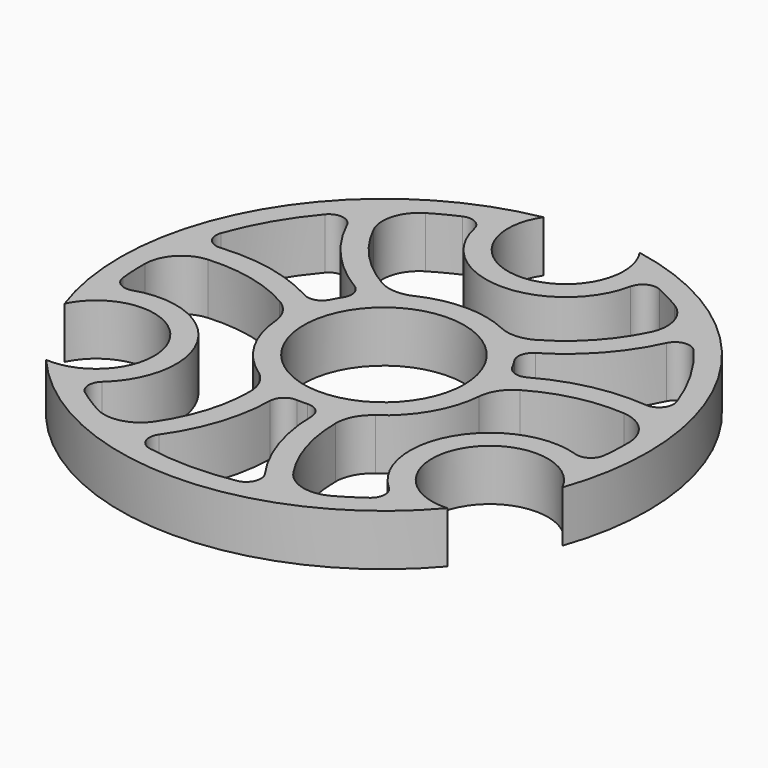
from build123d import *

# Parameters (mm, degrees)
F0_R     = 10.95
F1_DEPTH = 7
F2_R     = 5
F3_R     = 2


with BuildPart() as f1:
    # F0 (on Top) → F1 (new body)
    with BuildSketch(Plane.XY):
        with BuildLine():
            ThreePointArc((6.56352, 35.396613), (0, 23.1), (-6.56352, 35.396613))
            ThreePointArc((-6.56352, 35.396613), (-31.176915, 18), (-33.936126, -12.014131))
            ThreePointArc((-33.936126, -12.014131), (-20.005187, -11.55), (-27.372606, -23.382482))
            ThreePointArc((-27.372606, -23.382482), (0, -36), (27.372606, -23.382482))
            ThreePointArc((27.372606, -23.382482), (20.005187, -11.55), (33.936126, -12.014131))
            ThreePointArc((33.936126, -12.014131), (31.176915, 18), (6.56352, 35.396613))
        make_face()
        with BuildLine():
            ThreePointArc((-9.145851, -31.707308), (-4.156786, -23.320729), (-2.918877, -13.641212))
            ThreePointArc((-2.918877, -13.641212), (0, -13.95), (2.918877, -13.641212))
            ThreePointArc((2.918877, -13.641212), (4.156786, -23.320729), (9.145851, -31.707308))
            ThreePointArc((9.145851, -31.707308), (0, -33), (-9.145851, -31.707308))
        make_face(mode=Mode.SUBTRACT)
        with BuildLine():
            ThreePointArc((-12.282678, -30.629003), (-17.135811, -28.202198), (-21.525659, -25.012917))
            ThreePointArc((-21.525659, -25.012917), (-17.407111, -10.05), (-32.424651, -6.135309))
            ThreePointArc((-32.424651, -6.135309), (-32.991726, -0.738949), (-32.666834, 4.67739))
            ThreePointArc((-32.666834, 4.67739), (-22.851653, 5.116472), (-13.910969, 1.042811))
            ThreePointArc((-13.910969, 1.042811), (-12.081054, -6.975), (-6.052384, -12.568658))
            ThreePointArc((-6.052384, -12.568658), (-6.994832, -22.348348), (-12.282678, -30.629003))
        make_face(mode=Mode.SUBTRACT)
        with BuildLine():
            ThreePointArc((32.666834, 4.67739), (32.991726, -0.738949), (32.424651, -6.135309))
            ThreePointArc((32.424651, -6.135309), (17.407111, -10.05), (21.525659, -25.012917))
            ThreePointArc((21.525659, -25.012917), (17.135811, -28.202198), (12.282678, -30.629003))
            ThreePointArc((12.282678, -30.629003), (6.994832, -22.348348), (6.052384, -12.568658))
            ThreePointArc((6.052384, -12.568658), (12.081054, -6.975), (13.910969, 1.042811))
            ThreePointArc((13.910969, 1.042811), (22.851653, 5.116472), (32.666834, 4.67739))
        make_face(mode=Mode.SUBTRACT)
        with BuildLine():
            ThreePointArc((-10.354197, 9.348427), (-12.081054, 6.975), (-13.273074, 4.292784))
            ThreePointArc((-13.273074, 4.292784), (-22.274737, 8.060483), (-32.03226, 7.933115))
            ThreePointArc((-32.03226, 7.933115), (-28.578838, 16.5), (-22.886409, 23.774194))
            ThreePointArc((-22.886409, 23.774194), (-18.117951, 15.260247), (-10.354197, 9.348427))
        make_face(mode=Mode.SUBTRACT)
        Circle(F0_R, mode=Mode.SUBTRACT)
        with BuildLine():
            ThreePointArc((22.886409, 23.774194), (28.578838, 16.5), (32.03226, 7.933115))
            ThreePointArc((32.03226, 7.933115), (22.274737, 8.060483), (13.273074, 4.292784))
            ThreePointArc((13.273074, 4.292784), (12.081054, 6.975), (10.354197, 9.348427))
            ThreePointArc((10.354197, 9.348427), (18.117951, 15.260247), (22.886409, 23.774194))
        make_face(mode=Mode.SUBTRACT)
        with BuildLine():
            ThreePointArc((-20.384155, 25.951613), (-15.855914, 28.941147), (-10.898992, 31.148226))
            ThreePointArc((-10.898992, 31.148226), (0, 20.1), (10.898992, 31.148226))
            ThreePointArc((10.898992, 31.148226), (15.855914, 28.941147), (20.384155, 25.951613))
            ThreePointArc((20.384155, 25.951613), (15.856821, 17.231877), (7.858585, 11.525847))
            ThreePointArc((7.858585, 11.525847), (0, 13.95), (-7.858585, 11.525847))
            ThreePointArc((-7.858585, 11.525847), (-15.856821, 17.231877), (-20.384155, 25.951613))
        make_face(mode=Mode.SUBTRACT)
        with BuildLine():
            ThreePointArc((6.56352, 35.396613), (0, 23.1), (-6.56352, 35.396613))
            ThreePointArc((-6.56352, 35.396613), (-31.176915, 18), (-33.936126, -12.014131))
            ThreePointArc((-33.936126, -12.014131), (-20.005187, -11.55), (-27.372606, -23.382482))
            ThreePointArc((-27.372606, -23.382482), (0, -36), (27.372606, -23.382482))
            ThreePointArc((27.372606, -23.382482), (20.005187, -11.55), (33.936126, -12.014131))
            ThreePointArc((33.936126, -12.014131), (31.176915, 18), (6.56352, 35.396613))
        make_face()
        with BuildLine():
            ThreePointArc((-9.145851, -31.707308), (-4.156786, -23.320729), (-2.918877, -13.641212))
            ThreePointArc((-2.918877, -13.641212), (0, -13.95), (2.918877, -13.641212))
            ThreePointArc((2.918877, -13.641212), (4.156786, -23.320729), (9.145851, -31.707308))
            ThreePointArc((9.145851, -31.707308), (0, -33), (-9.145851, -31.707308))
        make_face(mode=Mode.SUBTRACT)
        with BuildLine():
            ThreePointArc((-12.282678, -30.629003), (-17.135811, -28.202198), (-21.525659, -25.012917))
            ThreePointArc((-21.525659, -25.012917), (-17.407111, -10.05), (-32.424651, -6.135309))
            ThreePointArc((-32.424651, -6.135309), (-32.991726, -0.738949), (-32.666834, 4.67739))
            ThreePointArc((-32.666834, 4.67739), (-22.851653, 5.116472), (-13.910969, 1.042811))
            ThreePointArc((-13.910969, 1.042811), (-12.081054, -6.975), (-6.052384, -12.568658))
            ThreePointArc((-6.052384, -12.568658), (-6.994832, -22.348348), (-12.282678, -30.629003))
        make_face(mode=Mode.SUBTRACT)
        with BuildLine():
            ThreePointArc((32.666834, 4.67739), (32.991726, -0.738949), (32.424651, -6.135309))
            ThreePointArc((32.424651, -6.135309), (17.407111, -10.05), (21.525659, -25.012917))
            ThreePointArc((21.525659, -25.012917), (17.135811, -28.202198), (12.282678, -30.629003))
            ThreePointArc((12.282678, -30.629003), (6.994832, -22.348348), (6.052384, -12.568658))
            ThreePointArc((6.052384, -12.568658), (12.081054, -6.975), (13.910969, 1.042811))
            ThreePointArc((13.910969, 1.042811), (22.851653, 5.116472), (32.666834, 4.67739))
        make_face(mode=Mode.SUBTRACT)
        with BuildLine():
            ThreePointArc((-10.354197, 9.348427), (-12.081054, 6.975), (-13.273074, 4.292784))
            ThreePointArc((-13.273074, 4.292784), (-22.274737, 8.060483), (-32.03226, 7.933115))
            ThreePointArc((-32.03226, 7.933115), (-28.578838, 16.5), (-22.886409, 23.774194))
            ThreePointArc((-22.886409, 23.774194), (-18.117951, 15.260247), (-10.354197, 9.348427))
        make_face(mode=Mode.SUBTRACT)
        Circle(F0_R, mode=Mode.SUBTRACT)
        with BuildLine():
            ThreePointArc((22.886409, 23.774194), (28.578838, 16.5), (32.03226, 7.933115))
            ThreePointArc((32.03226, 7.933115), (22.274737, 8.060483), (13.273074, 4.292784))
            ThreePointArc((13.273074, 4.292784), (12.081054, 6.975), (10.354197, 9.348427))
            ThreePointArc((10.354197, 9.348427), (18.117951, 15.260247), (22.886409, 23.774194))
        make_face(mode=Mode.SUBTRACT)
        with BuildLine():
            ThreePointArc((-20.384155, 25.951613), (-15.855914, 28.941147), (-10.898992, 31.148226))
            ThreePointArc((-10.898992, 31.148226), (0, 20.1), (10.898992, 31.148226))
            ThreePointArc((10.898992, 31.148226), (15.855914, 28.941147), (20.384155, 25.951613))
            ThreePointArc((20.384155, 25.951613), (15.856821, 17.231877), (7.858585, 11.525847))
            ThreePointArc((7.858585, 11.525847), (0, 13.95), (-7.858585, 11.525847))
            ThreePointArc((-7.858585, 11.525847), (-15.856821, 17.231877), (-20.384155, 25.951613))
        make_face(mode=Mode.SUBTRACT)
    extrude(amount=F1_DEPTH)

    # F2
    f2_edges = [f1.edges().sort_by_distance(p)[0] for p in [
        (6.052384, -12.568658, 3.5),
        (13.910969, 1.042811, 3.5),
        (7.858585, 11.525847, 3.5),
        (-7.858585, 11.525847, 3.5),
        (-13.910969, 1.042811, 3.5),
        (-6.052384, -12.568658, 3.5),
        (-20.384155, 25.951613, 3.5),
        (-32.666834, 4.67739, 3.5),
        (-12.282678, -30.629003, 3.5),
        (12.282678, -30.629003, 3.5),
        (32.666834, 4.67739, 3.5),
        (20.384155, 25.951613, 3.5),
    ]]
    fillet(f2_edges, radius=F2_R)

    # F3
    f3_edges = [f1.edges().sort_by_distance(p)[0] for p in [
        (-32.03226, 7.933115, 3.5),
        (-22.886409, 23.774194, 3.5),
        (-13.273074, 4.292784, 3.5),
        (-10.354197, 9.348427, 3.5),
        (13.273074, 4.292784, 3.5),
        (10.354197, 9.348427, 3.5),
        (22.886409, 23.774194, 3.5),
        (32.03226, 7.933115, 3.5),
        (32.424651, -6.135309, 3.5),
        (10.898992, 31.148226, 3.5),
        (-10.898992, 31.148226, 3.5),
        (-32.424651, -6.135309, 3.5),
        (-21.525659, -25.012917, 3.5),
        (-9.145851, -31.707308, 3.5),
        (2.918877, -13.641212, 3.5),
        (-2.918877, -13.641212, 3.5),
        (21.525659, -25.012917, 3.5),
        (9.145851, -31.707308, 3.5),
    ]]
    fillet(f3_edges, radius=F3_R)


solid = f1.part
